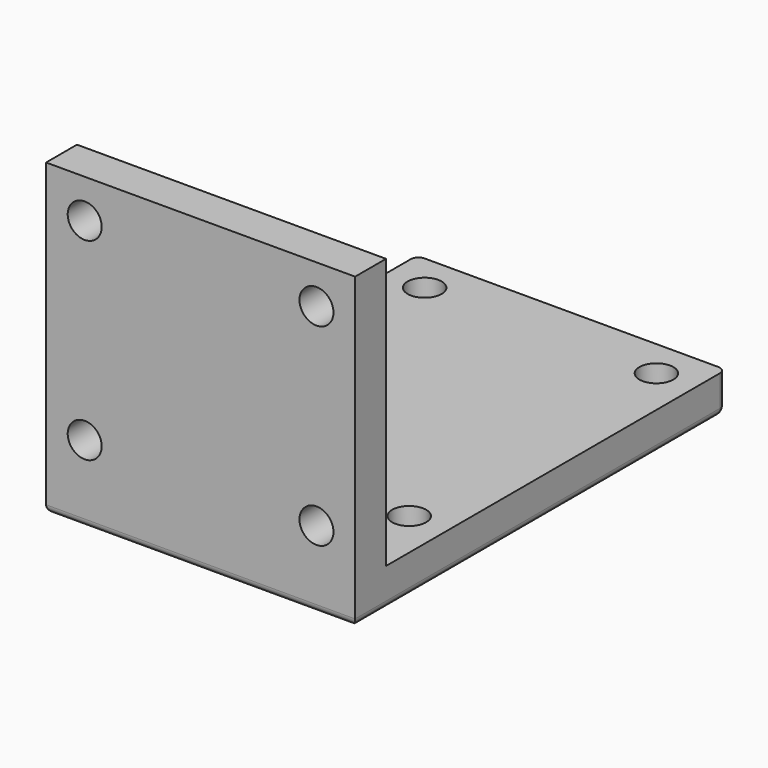
from build123d import *

# Parameters (mm, degrees)
F1_DEPTH = 40
F3_D     = 4.4
F5_D     = 4.4
F6_R     = 1


with BuildPart() as f1:
    # F0 (on Right) → F1 (new body)
    with BuildSketch(Plane.YZ):
        Polygon((5, 40), (0, 40), (0, 0), (60, 0), (60, 5), (5, 5), align=None)
    extrude(amount=F1_DEPTH)

    # F3 (through all)
    with Locations(Plane(origin=(0, 5, 0), x_dir=(-1, 0, 0), z_dir=(0, 1, 0))):
        with Locations((-35, 35), (-5, 35), (-5, 10), (-35, 10)):
            Hole(F3_D / 2)

    # F5 (through all)
    with Locations(Plane(origin=(0, 0, 0), x_dir=(1, 0, 0), z_dir=(0, 0, -1))):
        with Locations((35, -55), (5, -55), (5, -15), (35, -15)):
            Hole(F5_D / 2)

    # F6
    f6_edges = [f1.edges().sort_by_distance(p)[0] for p in [
        (40, 60, 2.5),
        (0, 60, 2.5),
        (20, 60, 0),
        (0, 30, 0),
        (20, 0, 0),
        (40, 30, 0),
    ]]
    fillet(f6_edges, radius=F6_R)


solid = f1.part
